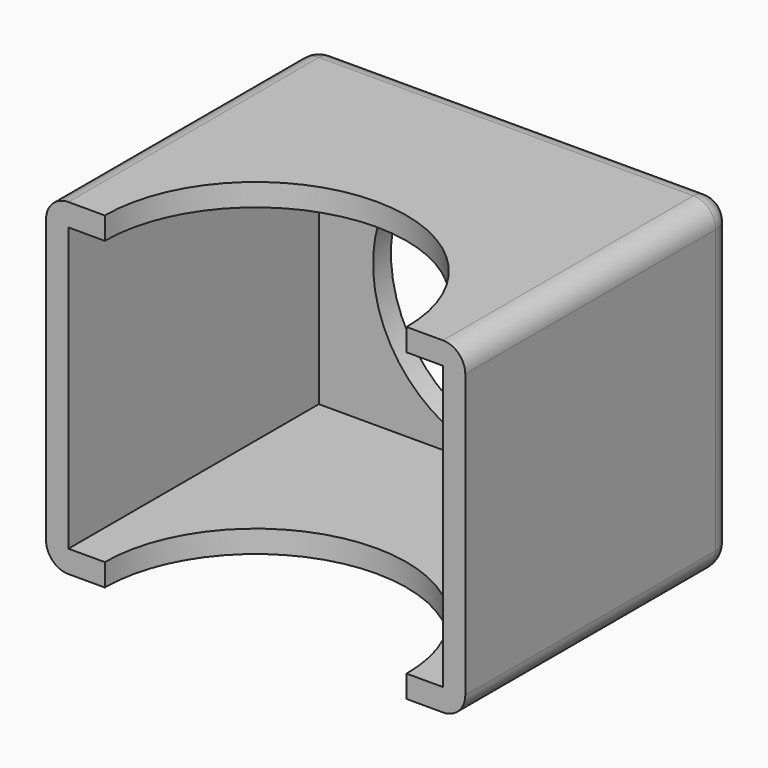
from build123d import *

# Parameters (mm, degrees)
F0_W     = 37.5
F0_H     = 29.3
F1_DEPTH = 30
F2_W     = 33.5
F2_H     = 25.3
F3_DEPTH = 28
F4_R     = 11.9
F5_DEPTH = 2.001
F7_DEPTH = 29.301
F8_R     = 2


with BuildPart() as f1:
    # F0 (on Front) → F1 (new body)
    with BuildSketch(Plane.XZ):
        with Locations((16.25, 12.15)):
            Rectangle(F0_W, F0_H)
    extrude(amount=F1_DEPTH)

    # F2 (on face) → F3 (cut)
    with BuildSketch(Plane.XZ.offset(30)):
        with Locations((16.25, 12.15)):
            Rectangle(F2_W, F2_H)
    extrude(amount=-F3_DEPTH, mode=Mode.SUBTRACT)

    # F4 (on face) → F5 (cut, through all)
    with BuildSketch(Plane.XZ.offset(2)):
        with Locations((16.25, 12.15)):
            Circle(F4_R)
    extrude(amount=-F5_DEPTH, mode=Mode.SUBTRACT)

    # F6 (on face) → F7 (cut, through all)
    with BuildSketch(Plane.XY.offset(26.8)):
        with BuildLine():
            Line((2.75, -30), (29.75, -30))
            ThreePointArc((29.75, -30), (16.25, -16.5), (2.75, -30))
        make_face()
    extrude(amount=-F7_DEPTH, mode=Mode.SUBTRACT)

    # F8
    f8_edges = [f1.edges().sort_by_distance(p)[0] for p in [
        (-2.5, -15, 26.8),
        (-2.5, -15, -2.5),
        (35, -15, -2.5),
        (35, -15, 26.8),
        (16.25, 0, 26.8),
        (35, 0, 12.15),
        (16.25, 0, -2.5),
        (-2.5, 0, 12.15),
    ]]
    fillet(f8_edges, radius=F8_R)


solid = f1.part
